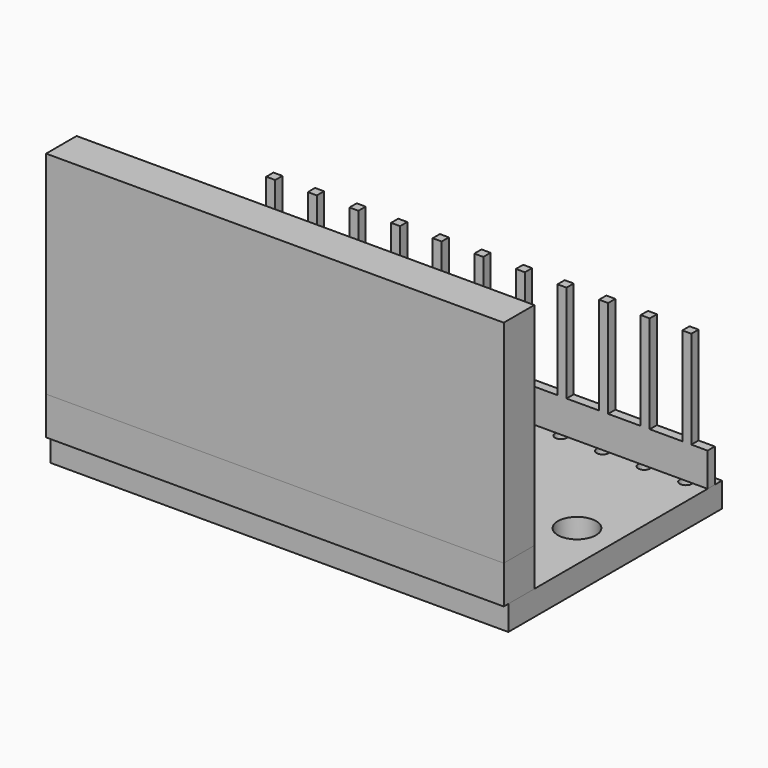
from build123d import *

# Parameters (mm, degrees)
SKETCH_W               = 30.48
SKETCH_H               = 17.78
PAD_DEPTH              = 1.65
SKETCH002_R            = 1.27
POCKET_DEPTH           = 1.651
SKETCH003_R            = 0.4
POCKET001_DEPTH        = 1.651
LINEARPATTERN_COUNT    = 12
LINEARPATTERN_PITCH    = 2.770909
LINEARPATTERN001_COUNT = 12
LINEARPATTERN001_PITCH = 2.770909
SKETCH001_W            = 14
SKETCH001_H            = 7.2
PAD001_DEPTH           = 1
SKETCH004_W            = 30.48
SKETCH004_H            = 2.54
PAD002_DEPTH           = 2.54
SKETCH006_W            = 30.48
SKETCH006_H            = 8.74
PAD003_DEPTH           = 0.3
SKETCH007_W            = 1.94
SKETCH007_H            = 12.4
POCKET002_DEPTH        = 0.301
POCKET002_DEPTH_BACK   = 0.301
LINEARPATTERN002_COUNT = 12
LINEARPATTERN002_PITCH = 2.770909
LINEARPATTERN003_COUNT = 12
LINEARPATTERN003_PITCH = 2.770909
SKETCH008_W            = 30.48
SKETCH008_H            = 14.1
PAD004_DEPTH           = 1.27


with BuildPart() as mainboard:
    # Sketch → Pad (new body)
    with BuildSketch(Plane.XY):
        Rectangle(SKETCH_W, SKETCH_H)
    extrude(amount=-PAD_DEPTH)

    # Sketch002 → Pocket (cut, through all)
    with BuildSketch(Plane.XY):
        with Locations((-12.7, 0)):
            Circle(SKETCH002_R)
        with Locations((12.7, 0)):
            Circle(SKETCH002_R)
    extrude(amount=-POCKET_DEPTH, mode=Mode.SUBTRACT)

    # Sketch003 → Pocket001 (cut, through all)
    with BuildSketch(Plane.XY):
        with Locations((0, -7.62)):
            Circle(SKETCH003_R)
        with Locations((0, 7.62)):
            Circle(SKETCH003_R)
    pocket001 = extrude(amount=-POCKET001_DEPTH, mode=Mode.SUBTRACT)

    # LinearPattern: Pocket001 ×12
    with Locations(*[(i * LINEARPATTERN_PITCH, 0, 0) for i in range(1, LINEARPATTERN_COUNT)]):
        add(pocket001, mode=Mode.SUBTRACT)

    # LinearPattern001: Pocket001 ×12
    with Locations(*[(-i * LINEARPATTERN001_PITCH, 0, 0) for i in range(1, LINEARPATTERN001_COUNT)]):
        add(pocket001, mode=Mode.SUBTRACT)


with BuildPart() as chip:
    # Sketch001 → Pad001 (new body)
    with BuildSketch(Plane.XY):
        Rectangle(SKETCH001_W, SKETCH001_H)
    extrude(amount=PAD001_DEPTH)


with BuildPart() as pinblock001:
    # Sketch004 → Pad002 (new body)
    with BuildSketch(Plane.XY):
        Rectangle(SKETCH004_W, SKETCH004_H)
    extrude(amount=PAD002_DEPTH)


with BuildPart() as pinblock001_1:
    # Body005 placement: moved
    add(pinblock001.part.moved(Location((0, 8, 0))))


with BuildPart() as pinblock001_2:
    # Clone placement: moved
    add(pinblock001_1.part.moved(Location((0, -8, 0))))


with BuildPart() as pinblock001_3:
    # Body006 placement: moved
    add(pinblock001_2.part.moved(Location((0, -8, 0))))


with BuildPart() as pins001:
    # Sketch006 → Pad003 (new body, symmetric)
    with BuildSketch(Plane.XZ):
        with Locations((0, 4.37)):
            Rectangle(SKETCH006_W, SKETCH006_H)
    extrude(amount=PAD003_DEPTH, both=True)

    # Sketch007 → Pocket002 (cut, two sides)
    with BuildSketch(Plane.XZ) as pocket002_sk:
        with Locations((-1.27, 8.44)):
            Rectangle(SKETCH007_W, SKETCH007_H)
        with Locations((1.27, 8.44)):
            Rectangle(SKETCH007_W, SKETCH007_H)
    pocket002 = extrude(amount=-POCKET002_DEPTH, mode=Mode.SUBTRACT) + extrude(pocket002_sk.sketch, amount=POCKET002_DEPTH_BACK, mode=Mode.SUBTRACT)

    # LinearPattern002: Pocket002 ×12
    with Locations(*[(i * LINEARPATTERN002_PITCH, 0, 0) for i in range(1, LINEARPATTERN002_COUNT)]):
        add(pocket002, mode=Mode.SUBTRACT)

    # LinearPattern003: Pocket002 ×12
    with Locations(*[(-i * LINEARPATTERN003_PITCH, 0, 0) for i in range(1, LINEARPATTERN003_COUNT)]):
        add(pocket002, mode=Mode.SUBTRACT)


with BuildPart() as pins001_1:
    # Body007 placement: moved
    add(pins001.part.moved(Location((0, -8, 0))))


with BuildPart() as pins001_2:
    # Body008 placement: moved
    add(pins001_1.part.moved(Location((0, 16, 0))))


with BuildPart() as jumperheader001:
    # Sketch008 → Pad004 (new body, symmetric)
    with BuildSketch(Plane.XZ):
        with Locations((0, 9.59)):
            Rectangle(SKETCH008_W, SKETCH008_H)
    extrude(amount=PAD004_DEPTH, both=True)


with BuildPart() as jumperheader001_1:
    # Body009 placement: moved
    add(jumperheader001.part.moved(Location((0, 8, 0))))


with BuildPart() as jumperheader001_2:
    # Clone002 placement: moved
    add(jumperheader001_1.part.moved(Location((0, -8, 0))))


with BuildPart() as jumperheader001_3:
    # Body010 placement: moved
    add(jumperheader001_2.part.moved(Location((0, -8, 0))))


solid = Compound([mainboard.part, chip.part, pinblock001_3.part, pins001_2.part, jumperheader001_3.part])
